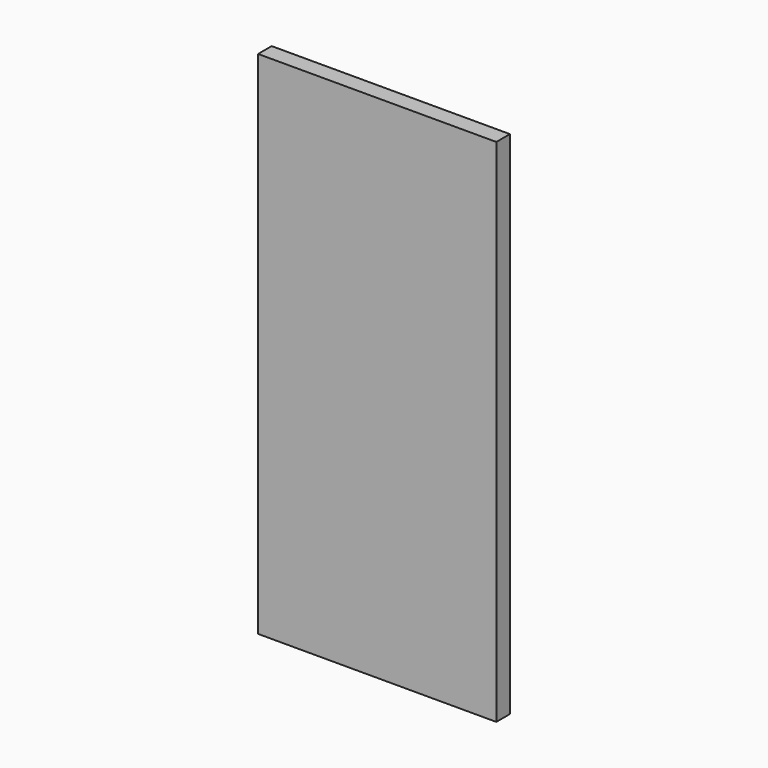
from build123d import *

# Parameters (mm, degrees)
SKETCH_W  = 1400
SKETCH_H  = 100
PAD_DEPTH = 3000


with BuildPart() as body:
    # Sketch → Pad (new body)
    with BuildSketch(Plane.XY):
        Rectangle(SKETCH_W, SKETCH_H)
    extrude(amount=PAD_DEPTH)


with BuildPart() as wall1400_clone:
    # Clone base: copy of Body
    add(body.part)


solid = Compound([body.part, wall1400_clone.part])
